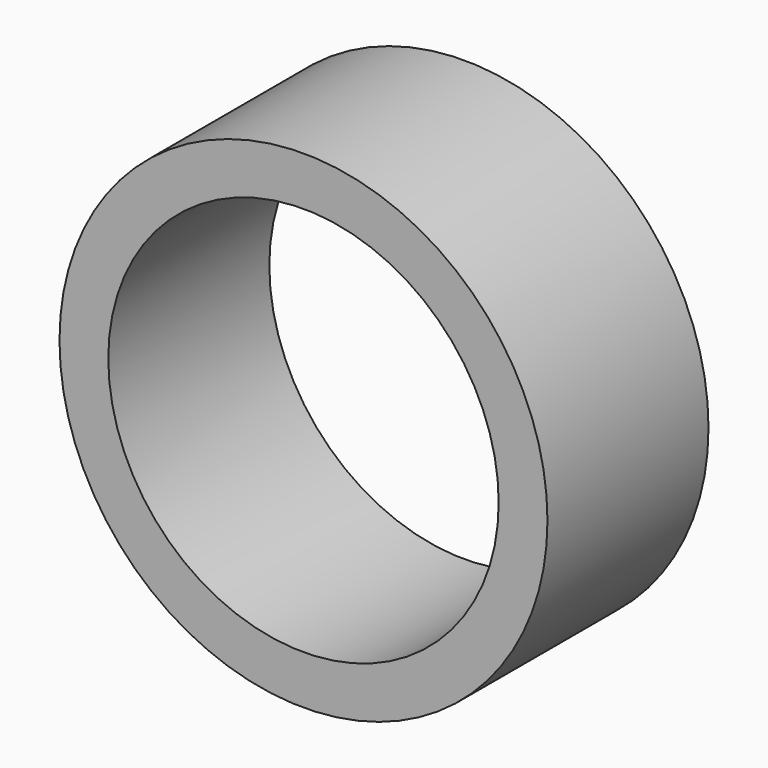
from build123d import *

# Parameters (mm, degrees)
CYLINDER237_R     = 3.2
CYLINDER237_DEPTH = 10
CYLINDER236_R     = 4
CYLINDER236_DEPTH = 3.3


with BuildPart() as cylinder237:
    # Cylinder237 → Cylinder237 (new body)
    with BuildSketch(Plane(origin=(129.6, 5.1, 61.3), x_dir=(1, 0, 0), z_dir=(0, 1, 0))):
        Circle(CYLINDER237_R)
    extrude(amount=CYLINDER237_DEPTH)


with BuildPart() as cut279:
    # Cylinder236 → Cylinder236 (new body)
    with BuildSketch(Plane(origin=(129.6, 9, 61.3), x_dir=(1, 0, 0), z_dir=(0, 1, 0))):
        Circle(CYLINDER236_R)
    extrude(amount=CYLINDER236_DEPTH)

    # Cut279: cut Cylinder237
    add(cylinder237.part, mode=Mode.SUBTRACT)


solid = cut279.part
